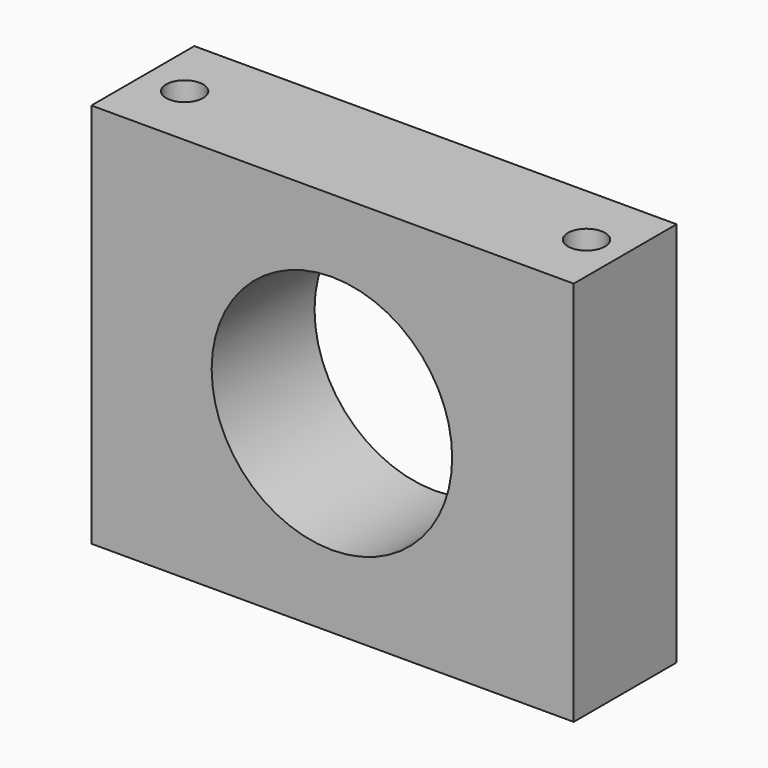
from build123d import *

# Parameters (mm, degrees)
F0_W     = 95.25
F0_H     = 76.2
F0_R     = 23.749
F1_DEPTH = 25.4
F3_D     = 7.3152


with BuildPart() as f1:
    # F0 (on Front) → F1 (new body)
    with BuildSketch(Plane.XZ):
        with Locations((14.847173, 7.273737)):
            Rectangle(F0_W, F0_H)
        with Locations((14.720173, 7.273737)):
            Circle(F0_R, mode=Mode.SUBTRACT)
    extrude(amount=F1_DEPTH)

    # F3 (through all)
    with Locations(Plane.XY.offset(45.373737)):
        with Locations((-24.527139, -12.7), (54.843643, -12.7)):
            Hole(F3_D / 2)


solid = f1.part
